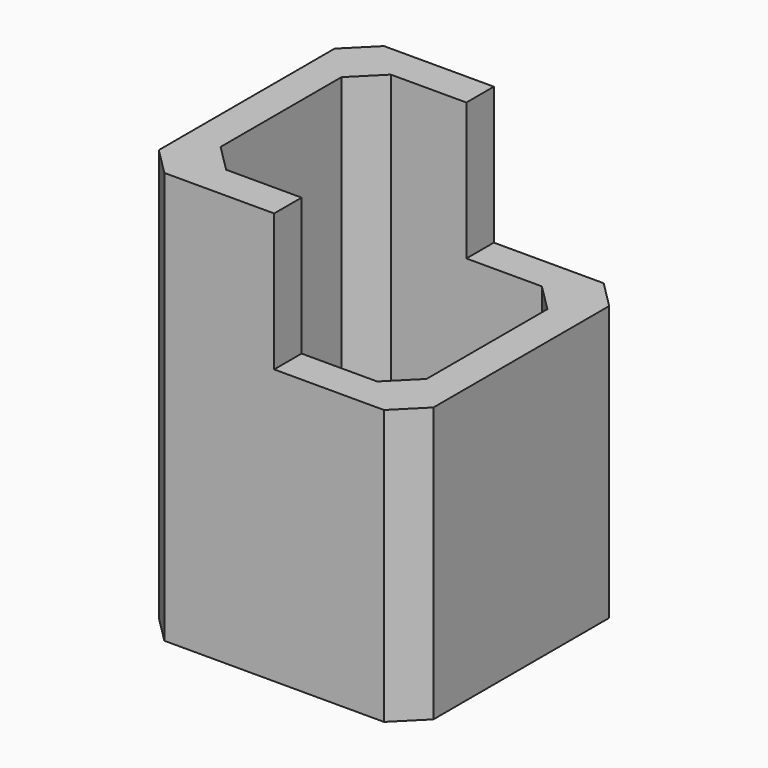
from build123d import *

# Parameters (mm, degrees)
F1_DEPTH = 25.4
F2_W     = 38.1
F2_H     = 38.1
F3_DEPTH = 76.2
F4_SIZE  = 5.08


with BuildPart() as f1:
    # F0 (on Front) → F1 (new body, symmetric)
    with BuildSketch(Plane.XZ):
        Polygon((0, 38.1), (-25.4, 38.1), (-25.4, -38.1), (25.4, -38.1), (25.4, 12.7), (0, 12.7), align=None)
    extrude(amount=F1_DEPTH, both=True)

    # F2 (on face) → F3 (cut, through all)
    with BuildSketch(Plane.XY.offset(38.1)):
        Rectangle(F2_W, F2_H)
    extrude(amount=-F3_DEPTH, mode=Mode.SUBTRACT)

    # F4
    f4_edges = [f1.edges().sort_by_distance(p)[0] for p in [
        (-19.05, -19.05, 0),
        (19.05, -19.05, -12.7),
        (19.05, 19.05, -12.7),
        (-19.05, 19.05, 0),
        (25.4, -25.4, -12.7),
        (25.4, 25.4, -12.7),
        (-25.4, 25.4, 0),
        (-25.4, -25.4, 0),
    ]]
    chamfer(f4_edges, length=F4_SIZE)


solid = f1.part
